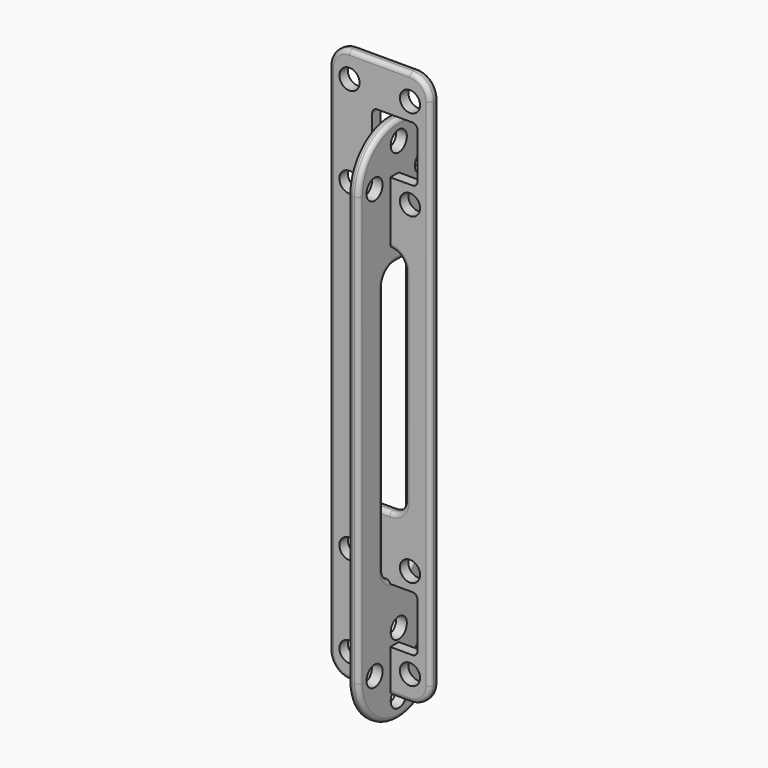
from build123d import *

# Parameters (mm, degrees)
F4_R      = 2
F5_DEPTH  = 2.1
F7_DEPTH  = 2.1
F8_R      = 0.84
F9_R      = 2
F10_DEPTH = 2.1
F11_R     = 0.84


with BuildPart() as f5:
    # F4 (on Front) → F5 (new body)
    with BuildSketch(Plane.XZ):
        with BuildLine():
            ThreePointArc((10, 101), (8.8284271247, 103.8284271247), (6, 105))
            Line((6, 105), (-6, 105))
            ThreePointArc((-6, 105), (-8.8284271247, 103.8284271247), (-10, 101))
            Line((-10, 101), (-10, -1))
            ThreePointArc((-10, -1), (-8.8284271247, -3.8284271247), (-6, -5))
            Line((-6, -5), (6, -5))
            ThreePointArc((6, -5), (8.8284271247, -3.8284271247), (10, -1))
            Line((10, -1), (10, 101))
        make_face()
        with Locations((-6, 0)):
            Circle(F4_R, mode=Mode.SUBTRACT)
        with Locations((-6, 18)):
            Circle(F4_R, mode=Mode.SUBTRACT)
        with Locations((6, 0)):
            Circle(F4_R, mode=Mode.SUBTRACT)
        with Locations((6, 18)):
            Circle(F4_R, mode=Mode.SUBTRACT)
        with BuildLine():
            ThreePointArc((5, 30), (4.1213203436, 27.8786796564), (2, 27))
            Line((2, 27), (-2, 27))
            ThreePointArc((-2, 27), (-4.1213203436, 27.8786796564), (-5, 30))
            Line((-5, 30), (-5, 70))
            ThreePointArc((-5, 70), (-4.1213203436, 72.1213203436), (-2, 73))
            Line((-2, 73), (2, 73))
            ThreePointArc((2, 73), (4.1213203436, 72.1213203436), (5, 70))
            Line((5, 70), (5, 30))
        make_face(mode=Mode.SUBTRACT)
        with Locations((-6, 82)):
            Circle(F4_R, mode=Mode.SUBTRACT)
        with Locations((-6, 100)):
            Circle(F4_R, mode=Mode.SUBTRACT)
        with Locations((6, 82)):
            Circle(F4_R, mode=Mode.SUBTRACT)
        with Locations((6, 100)):
            Circle(F4_R, mode=Mode.SUBTRACT)
    extrude(amount=F5_DEPTH)

    # F6 (on Front) → F7 (cut, through all)
    with BuildSketch(Plane.XZ):
        with BuildLine():
            Line((6.5, 14.5), (-0.5, 14.5))
            ThreePointArc((-0.5, 14.5), (-1.2071067812, 14.2071067812), (-1.5, 13.5))
            Line((-1.5, 13.5), (-1.5, 4.5))
            ThreePointArc((-1.5, 4.5), (-1.2071067812, 3.7928932188), (-0.5, 3.5))
            Line((-0.5, 3.5), (6.5, 3.5))
            ThreePointArc((6.5, 3.5), (7.2071067812, 3.7928932188), (7.5, 4.5))
            Line((7.5, 4.5), (7.5, 13.5))
            ThreePointArc((7.5, 13.5), (7.2071067812, 14.2071067812), (6.5, 14.5))
        make_face()
        with BuildLine():
            ThreePointArc((-1.5, 86.5), (-1.2071067812, 85.7928932188), (-0.5, 85.5))
            Line((-0.5, 85.5), (6.5, 85.5))
            ThreePointArc((6.5, 85.5), (7.2071067812, 85.7928932188), (7.5, 86.5))
            Line((7.5, 86.5), (7.5, 95.5))
            ThreePointArc((7.5, 95.5), (7.2071067812, 96.2071067812), (6.5, 96.5))
            Line((6.5, 96.5), (-0.5, 96.5))
            ThreePointArc((-0.5, 96.5), (-1.2071067812, 96.2071067812), (-1.5, 95.5))
            Line((-1.5, 95.5), (-1.5, 86.5))
        make_face()
    extrude(amount=F7_DEPTH, mode=Mode.SUBTRACT)

    # F8
    f8_edges = [f5.edges().sort_by_distance(p)[0] for p in [
        (10, -1.05, -1),
        (10, -1.05, 101),
        (10, 0, 50),
        (10, -2.1, 50),
        (-5, -1.05, 30),
        (-5, -1.05, 70),
        (-5, 0, 50),
        (-5, -2.1, 50),
    ]]
    fillet(f8_edges, radius=F8_R)


with BuildPart() as f10:
    # F9 (on Right) → F10 (new body)
    with BuildSketch(Plane.YZ):
        with BuildLine():
            ThreePointArc((-9.9, 0), (0, -9.9), (9.9, 0))
            ThreePointArc((9.9, 0), (0, 9.9), (-9.9, 0))
        make_face()
        with Locations((-6, 0)):
            Circle(F9_R, mode=Mode.SUBTRACT)
        with Locations((0, -6)):
            Circle(F9_R, mode=Mode.SUBTRACT)
        Circle(F9_R, mode=Mode.SUBTRACT)
        with Locations((0, 6)):
            Circle(F9_R, mode=Mode.SUBTRACT)
        with Locations((6, 0)):
            Circle(F9_R, mode=Mode.SUBTRACT)
        with BuildLine():
            ThreePointArc((-9.9, 0), (0, 9.9), (9.9, 0))
            Line((9.9, 0), (9.9, 85))
            ThreePointArc((9.9, 85), (0, 75.1), (-9.9, 85))
            Line((-9.9, 85), (-9.9, 0))
        make_face()
        with BuildLine():
            ThreePointArc((3.9, 17.9), (3.0213203436, 15.7786796564), (0.9, 14.9))
            Line((0.9, 14.9), (-0.9, 14.9))
            ThreePointArc((-0.9, 14.9), (-3.0213203436, 15.7786796564), (-3.9, 17.9))
            Line((-3.9, 17.9), (-3.9, 67.1))
            ThreePointArc((-3.9, 67.1), (-3.0213203436, 69.2213203436), (-0.9, 70.1))
            Line((-0.9, 70.1), (0.9, 70.1))
            ThreePointArc((0.9, 70.1), (3.0213203436, 69.2213203436), (3.9, 67.1))
            Line((3.9, 67.1), (3.9, 17.9))
        make_face(mode=Mode.SUBTRACT)
        with BuildLine():
            ThreePointArc((-9.9, 85), (0, 75.1), (9.9, 85))
            ThreePointArc((9.9, 85), (0, 94.9), (-9.9, 85))
        make_face()
        with Locations((-6, 85)):
            Circle(F9_R, mode=Mode.SUBTRACT)
        with Locations((0, 79)):
            Circle(F9_R, mode=Mode.SUBTRACT)
        with Locations((0, 91)):
            Circle(F9_R, mode=Mode.SUBTRACT)
        with Locations((6, 85)):
            Circle(F9_R, mode=Mode.SUBTRACT)
    extrude(amount=F10_DEPTH)

    # F11
    f11_edges = [f10.edges().sort_by_distance(p)[0] for p in [
        (1.05, 9.9, 0),
        (1.05, 9.9, 85),
        (0, 9.9, 42.5),
        (2.1, 9.9, 42.5),
        (1.05, -3.9, 17.9),
        (1.05, -3.9, 67.1),
        (0, -3.9, 42.5),
        (2.1, -3.9, 42.5),
    ]]
    fillet(f11_edges, radius=F11_R)


solid = Compound([f5.part, f10.part])
